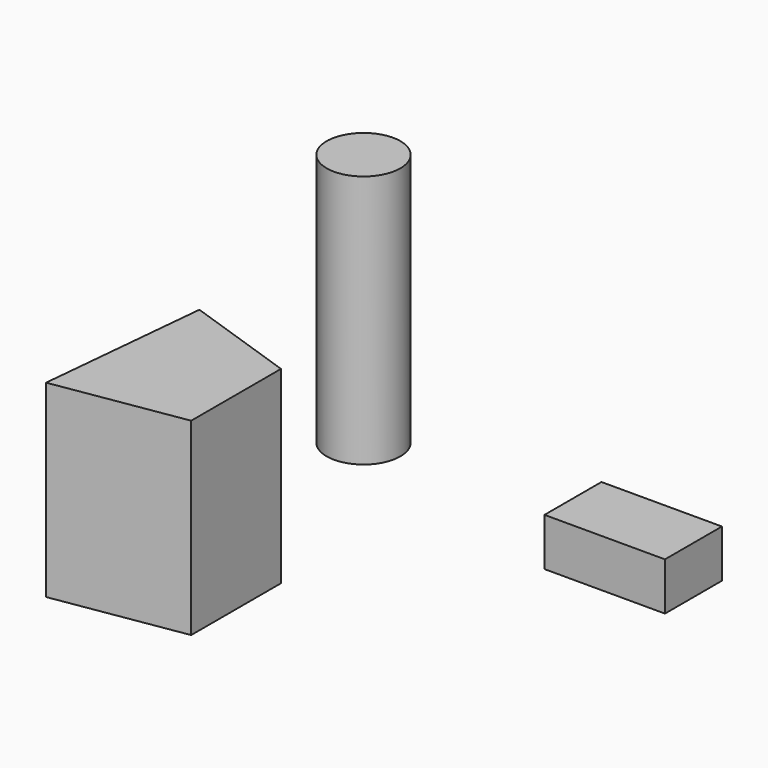
from build123d import *

# Parameters (mm, degrees)
F0_W     = 207.533106
F0_H     = 122.63321
F1_DEPTH = 82.296
F0_R     = 63.5
F2_DEPTH = 436.88
F3_DEPTH = 325.12
F4_DEPTH = 170.18


with BuildPart() as f1:
    # F0 (on Top) → F1 (new body)
    with BuildSketch(Plane.XY):
        with Locations((212.260927, 171.326202)):
            Rectangle(F0_W, F0_H)
    extrude(amount=F1_DEPTH)


with BuildPart() as f2:
    # F0 (on Top) → F2 (new body)
    with BuildSketch(Plane.XY):
        with Locations((-311.539739, 245.354399)):
            Circle(F0_R)
    extrude(amount=F2_DEPTH)


with BuildPart() as f3:
    # F0 (on Top) → F3 (new body)
    with BuildSketch(Plane.XY):
        Polygon((-142.58042, -143.598471), (-335.963554, -77.565193), (-364.263541, -372.356556), (-142.58042, -336.981594), align=None)
        Polygon((-310.021927, -292.173275), (-277.005283, -160.106761), (-238.994548, -309.930128), align=None, mode=Mode.SUBTRACT)
        Polygon((-238.994548, -309.930128), (-277.005283, -160.106761), (-310.021927, -292.173275), align=None)
    extrude(amount=F3_DEPTH)

    # F0 (on Top) → F4 (cut)
    with BuildSketch(Plane.XY):
        Polygon((-238.994548, -309.930128), (-277.005283, -160.106761), (-310.021927, -292.173275), align=None)
    extrude(amount=F4_DEPTH, mode=Mode.SUBTRACT)


solid = Compound([f1.part, f2.part, f3.part])
